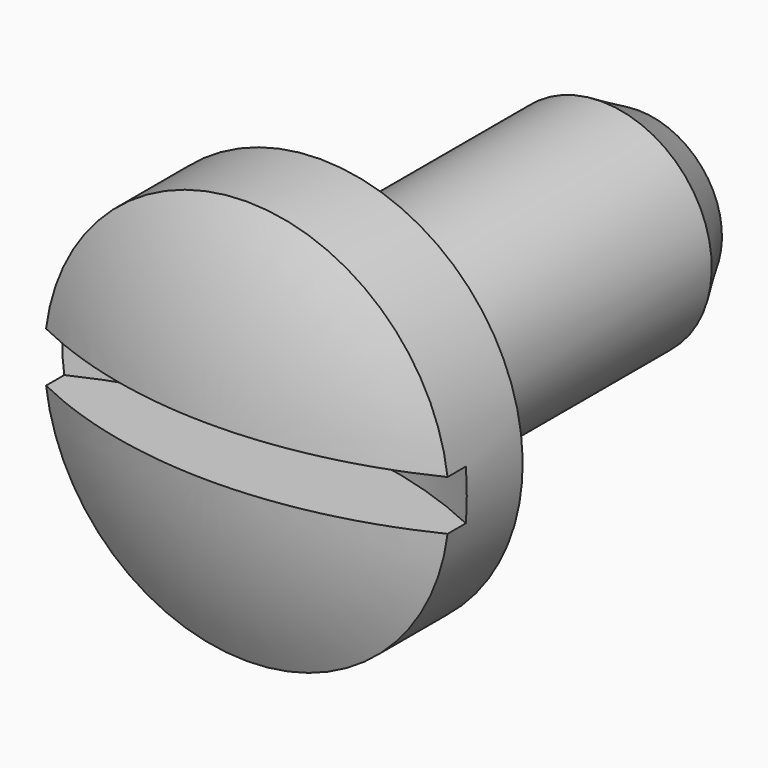
from build123d import *

# Parameters (mm, degrees)
F4_R     = 0.254
F6_DEPTH = 0.4318


with BuildPart() as f1:
    # F0 (on Right) → F1 (revolve)
    with BuildSketch(Plane.YZ):
        with BuildLine():
            Line((-0.8096426782, 0), (0, 0))
            Line((0, 0), (1.5875, 0))
            Line((1.5875, 0), (1.5875, 3.4925))
            Line((1.5875, 3.4925), (0, 3.4925))
            ThreePointArc((0, 3.4925), (-0.6045832289, 1.7925594492), (-0.8096426782, 0))
        make_face()
    revolve(axis=Axis((0, 9.1738495976, 0), (0, -1, 0)))

    # F2 (on Right) → F3 (revolve)
    with BuildSketch(Plane.YZ):
        Polygon((2.38125, 1.59258), (1.5875, 1.59258), (1.5875, 0), (8.4455, 0), (8.4455, 1.4467282238), (7.65175, 1.905), (2.69367, 1.905), align=None)
    revolve(axis=Axis((0, 8.9318295941, 0), (0, 1, 0)))

    # F4
    f4_edges = [f1.edges().sort_by_distance(p)[0] for p in [
        (0, 1.5875, -1.59258),
        (0, 2.38125, -1.59258),
    ]]
    fillet(f4_edges, radius=F4_R)

    # F5 (on Top) → F6 (cut, symmetric)
    with BuildSketch(Plane.XY):
        with BuildLine():
            Line((3.4925, -1.3970176782), (3.4925, 0.3809823218))
            ThreePointArc((3.4925, 0.3809823218), (0, 1.1747323218), (-3.4925, 0.3809823218))
            Line((-3.4925, 0.3809823218), (-3.4925, -1.3970176782))
            Line((-3.4925, -1.3970176782), (3.4925, -1.3970176782))
        make_face()
    extrude(amount=F6_DEPTH, both=True, mode=Mode.SUBTRACT)


solid = f1.part
